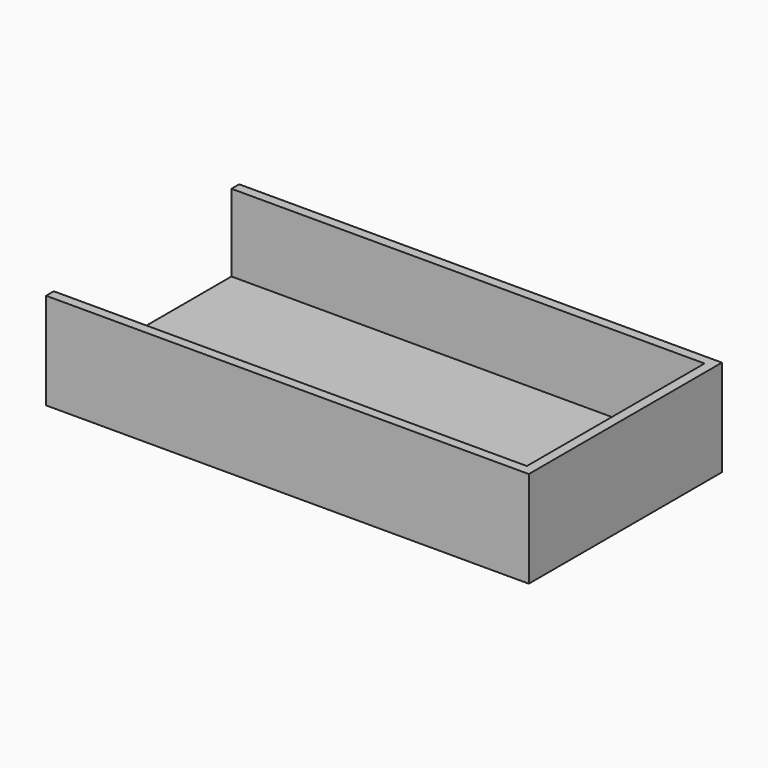
from build123d import *

# Parameters (mm, degrees)
SKETCH_W          = 100
SKETCH_H          = 50
PAD_DEPTH         = 20
THICKNESS_T       = -2
THICKNESS_FACE9_W = 46
THICKNESS_FACE9_H = 98
PAD001_DEPTH      = 2


with BuildPart() as part:
    # Sketch → Pad (new body)
    with BuildSketch(Plane.XY):
        Rectangle(SKETCH_W, SKETCH_H)
    extrude(amount=PAD_DEPTH)

    # Thickness
    thickness_openings = [part.faces().sort_by_distance(p)[0] for p in [
        (0, 0, 20),
        (-50, 0, 10),
    ]]
    offset(amount=THICKNESS_T, openings=thickness_openings)

    # Thickness Face9 → Pad001 (add)
    with BuildSketch(Plane(origin=(-1, 0, 2), x_dir=(0, 1, 0), z_dir=(0, 0, 1))):
        Rectangle(THICKNESS_FACE9_W, THICKNESS_FACE9_H)
    extrude(amount=PAD001_DEPTH)


solid = part.part
